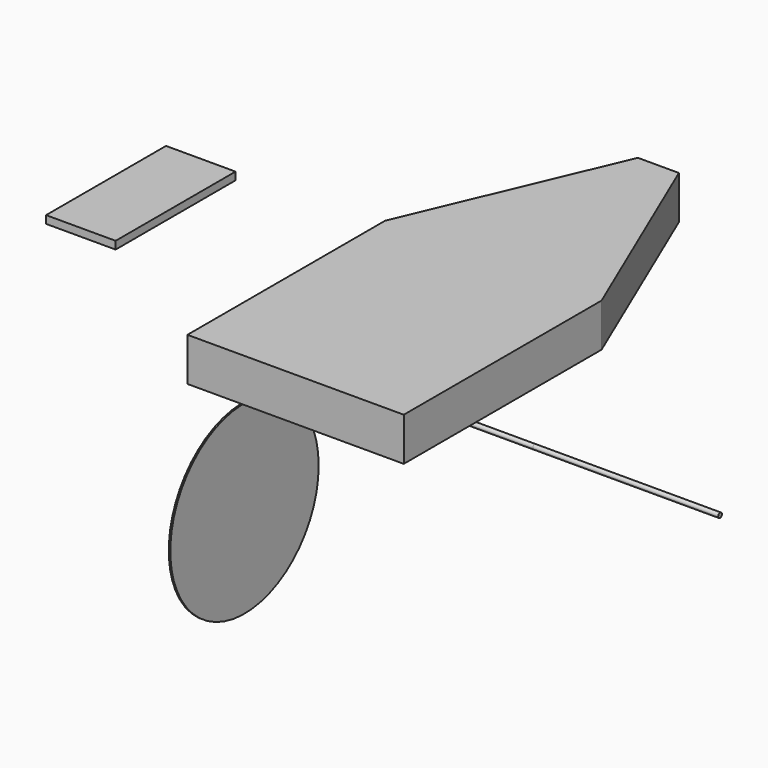
from build123d import *

# Parameters (mm, degrees)
F1_DEPTH = 28
F2_R     = 60
F3_DEPTH = 1
F2_R_2   = 1.5
F4_DEPTH = 260
F5_DEPTH = 10
F2_W     = 70
F2_H     = 15
F6_DEPTH = 25
F0_W     = 45
F0_H     = 97
F7_DEPTH = 5
F8_DEPTH = 140


with BuildPart() as f1:
    # F0 (on Top) → F1 (new body)
    with BuildSketch(Plane.XY):
        Polygon((47.216782, 32.645319), (-22.783218, 32.645319), (-22.783218, -127.354681), (117.216782, -127.354681), (117.216782, 32.645319), align=None)
        Polygon((33.931015, 166.093795), (-22.783218, 32.645319), (47.216782, 32.645319), (47.216782, 166.093795), align=None)
        Polygon((47.216782, 166.093795), (47.216782, 32.645319), (117.216782, 32.645319), (60.502549, 166.093795), align=None)
    extrude(amount=F1_DEPTH)


with BuildPart() as f3:
    # F2 (on Right) → F3 (new body)
    with BuildSketch(Plane.YZ):
        with Locations((-110.927295, -69.854259)):
            Circle(F2_R)
    extrude(amount=F3_DEPTH)


with BuildPart() as f4:
    # F2 (on Right) → F4 (new body)
    with BuildSketch(Plane.YZ):
        with Locations((-49.968604, -14.329593)):
            Circle(F2_R_2)
    extrude(amount=F4_DEPTH)


with BuildPart() as f5:
    # F2 (on Right) → F5 (new body)
    with BuildSketch(Plane.YZ):
        Polygon((-20.532722, -4.048295), (-30.532722, -4.048295), (-20.532722, -5.488549), (-10.536689, -5.822368), (-8.202231, -5.900328), (-3.998438, -6.040714), (3.118484, -10.356675), (14.268117, -7.967468), (21.775685, -6.510801), (34.467278, -4.048295), align=None)
        with Locations((4.649221, -7.3473)):
            Circle(F2_R_2, mode=Mode.SUBTRACT)
    extrude(amount=F5_DEPTH)


with BuildPart() as f6:
    # F2 (on Right) → F6 (new body)
    with BuildSketch(Plane.YZ):
        with Locations((68.311576, -52.339003)):
            Rectangle(F2_W, F2_H)
    extrude(amount=F6_DEPTH)


with BuildPart() as f7:
    # F0 (on Top) → F7 (new body)
    with BuildSketch(Plane.XY):
        with Locations((-165.477746, 13.300339)):
            Rectangle(F0_W, F0_H)
    extrude(amount=F7_DEPTH)


with BuildPart() as f8:
    # F2 (on Right) → F8 (new body)
    with BuildSketch(Plane.YZ):
        with Locations((-49.968604, -14.329593)):
            Circle(F2_R_2)
    extrude(amount=F8_DEPTH)


solid = Compound([f1.part, f3.part, f4.part, f5.part, f6.part, f7.part, f8.part])
